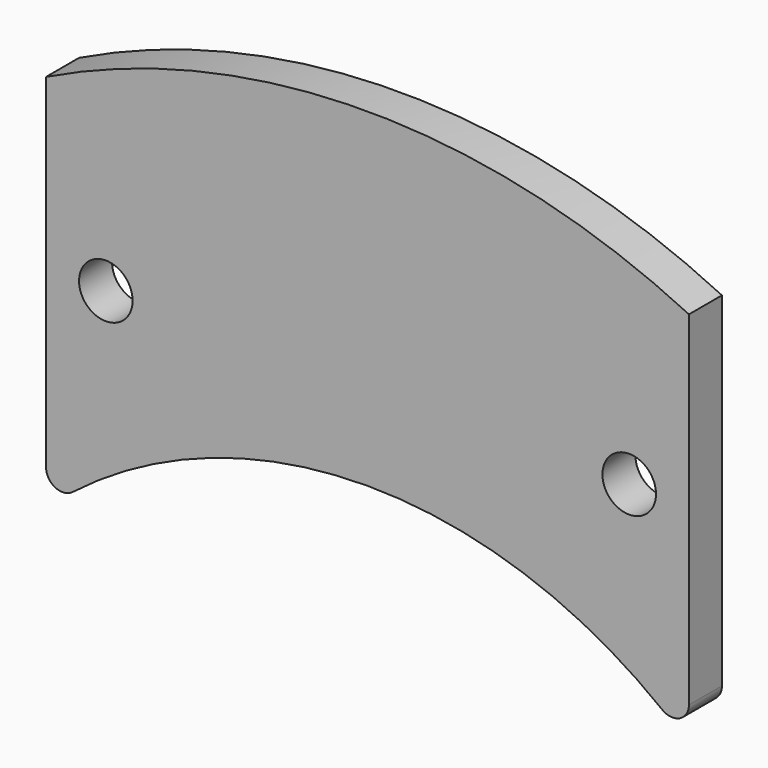
from build123d import *

# Parameters (mm, degrees)
F0_R     = 3.25
F1_DEPTH = 5
F2_R     = 2


with BuildPart() as f1:
    # F0 (on Front) → F1 (new body)
    with BuildSketch(Plane.XZ):
        with BuildLine():
            Line((-39, 0), (-39, -46))
            ThreePointArc((-39, -46), (0, -31), (39, -46))
            Line((39, -46), (39, 0))
            ThreePointArc((39, 0), (0, 9), (-39, 0))
        make_face()
        with Locations((-31.75, -20.5)):
            Circle(F0_R, mode=Mode.SUBTRACT)
        with Locations((31.75, -20.5)):
            Circle(F0_R, mode=Mode.SUBTRACT)
    extrude(amount=-F1_DEPTH)

    # F2
    f2_edges = [f1.edges().sort_by_distance(p)[0] for p in [
        (-39, 2.5, -46),
        (39, 2.5, -46),
    ]]
    fillet(f2_edges, radius=F2_R)


solid = f1.part
